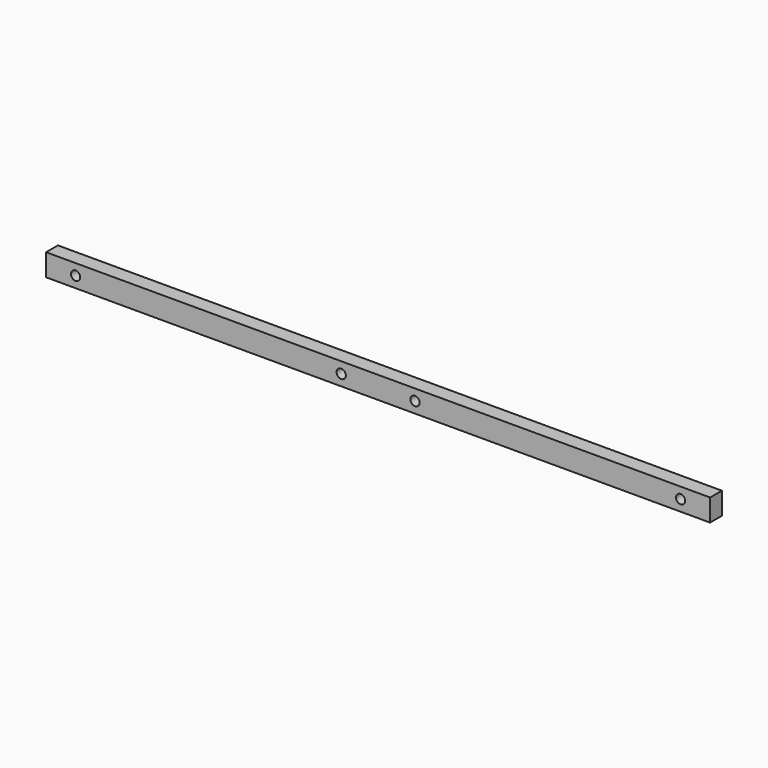
from build123d import *

# Parameters (mm, degrees)
F0_W     = 1143
F0_H     = 38.1
F1_DEPTH = 25.4
F3_D     = 15.875


with BuildPart() as f1:
    # F0 (on Front) → F1 (new body)
    with BuildSketch(Plane.XZ):
        with Locations((571.5, 19.05)):
            Rectangle(F0_W, F0_H)
    extrude(amount=F1_DEPTH)

    # F3 (through all)
    with Locations(Plane.XZ.offset(25.4)):
        with Locations((50.8, 19.05), (508, 19.05), (635, 19.05), (1092.2, 19.05)):
            Hole(F3_D / 2)


solid = f1.part
